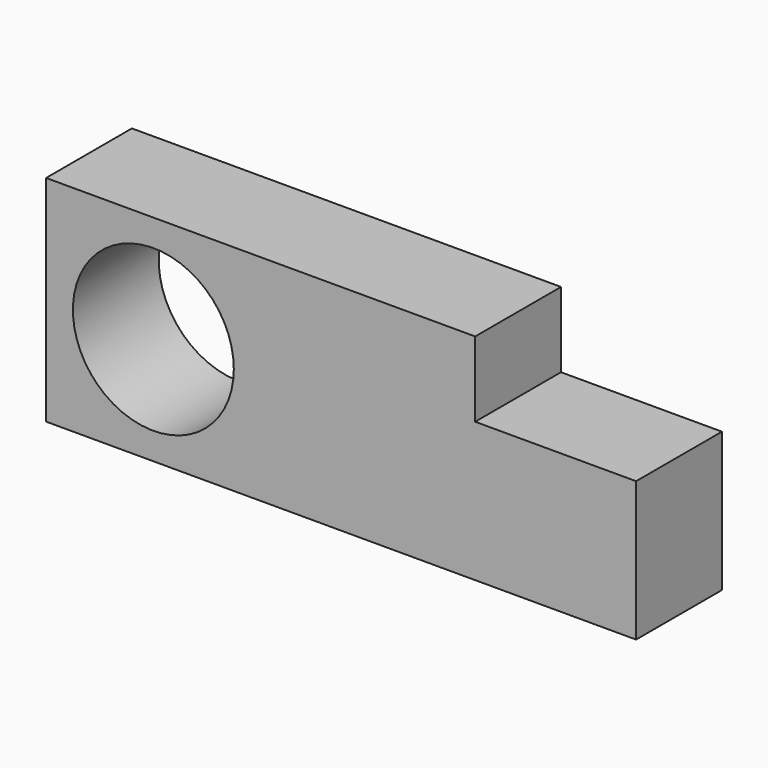
from build123d import *

# Parameters (mm, degrees)
F0_R     = 4.7625
F1_DEPTH = 6.35


with BuildPart() as f1:
    # F0 (on Front) → F1 (new body)
    with BuildSketch(Plane.XZ):
        Polygon((-34.925, 0), (0, 0), (0, 8.255), (-9.525, 8.255), (-9.525, 12.7), (-34.925, 12.7), align=None)
        with Locations((-28.575, 6.35)):
            Circle(F0_R, mode=Mode.SUBTRACT)
    extrude(amount=-F1_DEPTH)


solid = f1.part
